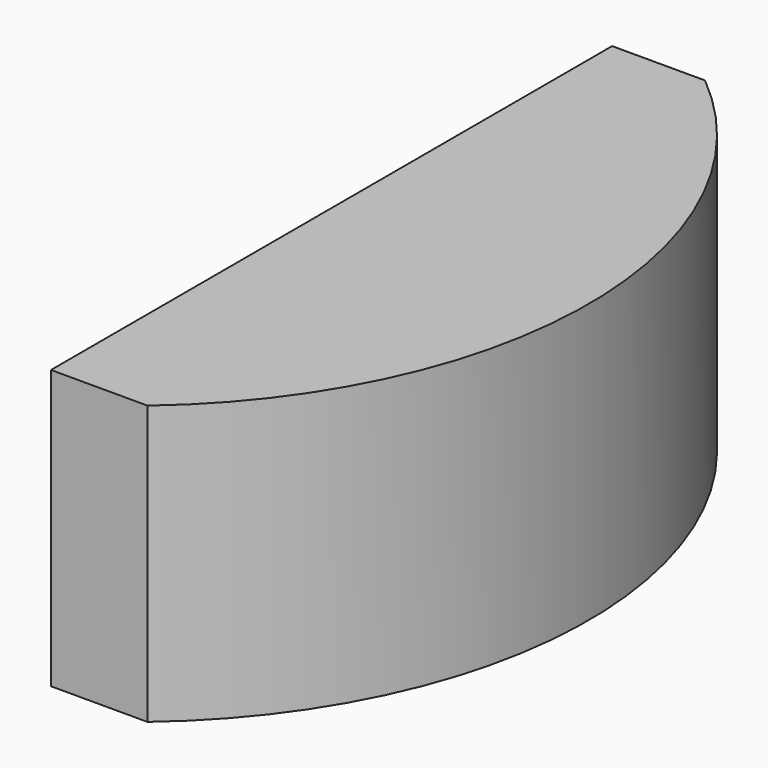
from build123d import *

# Parameters (mm, degrees)
F2_DEPTH = 20.1676
F3_W     = 40.64
F3_H     = 10.16
F4_DEPTH = 5.08


with BuildPart() as f2:
    # F1 (on Top) → F2 (new body)
    with BuildSketch(Plane.XY):
        with BuildLine():
            Line((6.7323240508, 25.4), (0, 25.4))
            Line((0, 25.4), (0, -25.4))
            Line((0, -25.4), (6.988068358, -25.4))
            ThreePointArc((6.988068358, -25.4), (18.6973375399, 0.0595921557), (6.7323240508, 25.4))
        make_face()
    extrude(amount=F2_DEPTH)

    # F3 (on face) → F4 (cut)
    with BuildSketch(Plane(origin=(0, 0, 0), x_dir=(0, -1, 0), z_dir=(-1, 0, 0))):
        with Locations((-0.0762, 10.0838)):
            Rectangle(F3_W, F3_H)
    extrude(amount=-F4_DEPTH, mode=Mode.SUBTRACT)


solid = f2.part
